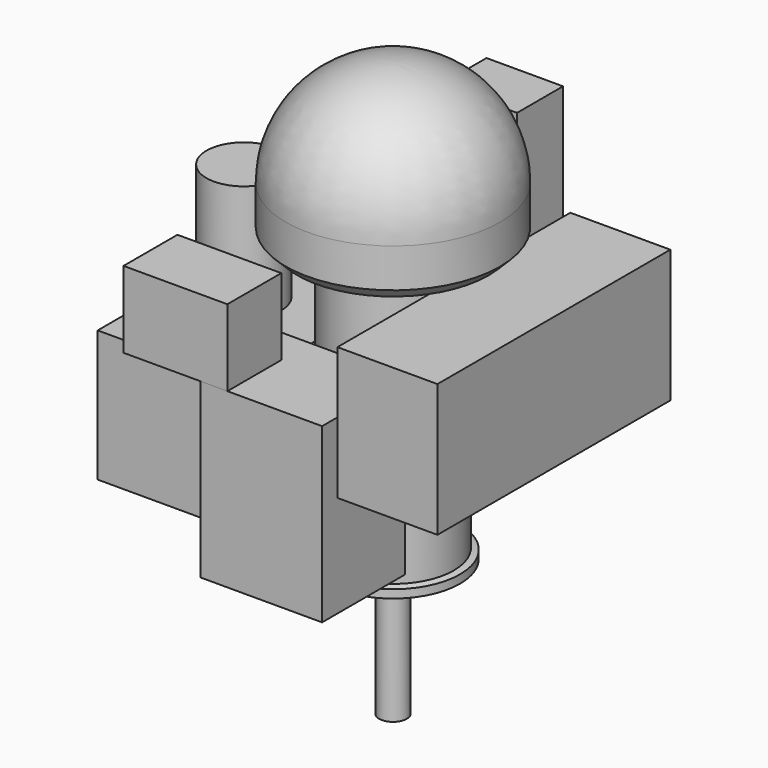
from build123d import *

# Parameters (mm, degrees)
F2_SIZE   = 35
F3_R      = 8
F4_R      = 42.3
F5_DEPTH  = 416.6
F7_W      = 890
F7_H      = 405.8
F8_DEPTH  = 305.8
F10_W     = 692
F10_H     = 401.7
F11_DEPTH = 440
F12_R     = 114
F13_DEPTH = 356.5
F15_W     = 372.2
F15_H     = 528.2
F16_DEPTH = 317.5
F18_W     = 372.2
F18_H     = 434.4
F19_DEPTH = 317.5
F20_W     = 234
F20_H     = 175.8
F21_DEPTH = 484.6
F22_W     = 317.5
F22_H     = 206
F23_DEPTH = 234
F24_W     = 261.8
F24_H     = 132.1
F25_DEPTH = 68.7
F26_W     = 261.8
F26_H     = 132.1
F27_DEPTH = 70.4


with BuildPart() as f1:
    # F0 (on Front) → F1 (revolve)
    with BuildSketch(Plane.XZ):
        with BuildLine():
            Line((-205, 0), (0, 0))
            Line((0, 0), (0, 25.3))
            Line((0, 25.3), (-18.9, 29.6))
            Line((-18.9, 29.6), (-18.9, 858.7))
            Line((-18.9, 858.7), (122.8, 858.7))
            Line((122.8, 858.7), (122.8, 1013))
            ThreePointArc((122.8, 1013), (26.6183567342, 1243.801776423), (-205, 1338))
            Line((-205, 1338), (-205, 0))
        make_face()
    revolve(axis=Axis((-205, 0, 856.7140548392), (0, 0, -1)))

    # F2
    f2_edges = [f1.edges().sort_by_distance(p)[0] for p in [
        (-532.8, 0, 858.7),
    ]]
    chamfer(f2_edges, length=F2_SIZE)

    # F3
    f3_edges = [f1.edges().sort_by_distance(p)[0] for p in [
        (-391.1, 0, 858.7),
    ]]
    fillet(f3_edges, radius=F3_R)

    # F4 (on face) → F5 (join)
    with BuildSketch(Plane(origin=(0, 0, 0), x_dir=(1, 0, 0), z_dir=(0, 0, -1))):
        with Locations((-205, 0)):
            Circle(F4_R)
    extrude(amount=F5_DEPTH)

    # F7 (on offset) → F8 (join)
    with BuildSketch(Plane.YZ.offset(-18.9)):
        with Locations((0, 608.7)):
            Rectangle(F7_W, F7_H)
    extrude(amount=F8_DEPTH)

    # F10 (on offset) → F11 (join)
    with BuildSketch(Plane.YZ.offset(-391.1)):
        with Locations((0, 351.45)):
            Rectangle(F10_W, F10_H)
    extrude(amount=-F11_DEPTH)

    # F12 (on face) → F13 (join)
    with BuildSketch(Plane.XY.offset(552.3)):
        with Locations((-667.1, 7.5)):
            Circle(F12_R)
    extrude(amount=F13_DEPTH)


with BuildPart() as f16:
    # F15 (on offset) → F16 (new body)
    with BuildSketch(Plane.XZ.offset(186.1)):
        with Locations((-205, 358.6)):
            Rectangle(F15_W, F15_H)
    extrude(amount=F16_DEPTH)

    # F26 (on face) → F27 (join, through all)
    with BuildSketch(Plane.XY.offset(622.7)):
        with Locations((-522, -252.15)):
            Rectangle(F26_W, F26_H)
    extrude(amount=-F27_DEPTH)


with BuildPart() as f19:
    # F18 (on offset) → F19 (new body)
    with BuildSketch(Plane.XZ.offset(-186.1)):
        with Locations((-205, 403.8)):
            Rectangle(F18_W, F18_H)
    extrude(amount=-F19_DEPTH)

    # F24 (on face) → F25 (join, through all)
    with BuildSketch(Plane.XY.offset(621)):
        with Locations((-522, 252.15)):
            Rectangle(F24_W, F24_H)
    extrude(amount=-F25_DEPTH)


with BuildPart() as f21:
    # F20 (on face) → F21 (new body)
    with BuildSketch(Plane.XY.offset(621)):
        with Locations((-205, 415.7)):
            Rectangle(F20_W, F20_H)
    extrude(amount=F21_DEPTH)


with BuildPart() as f23:
    # F22 (on face) → F23 (new body)
    with BuildSketch(Plane.XY.offset(622.7)):
        with Locations((-467.25, -400.6)):
            Rectangle(F22_W, F22_H)
    extrude(amount=F23_DEPTH)


solid = Compound([f1.part, f16.part, f19.part, f21.part, f23.part])
